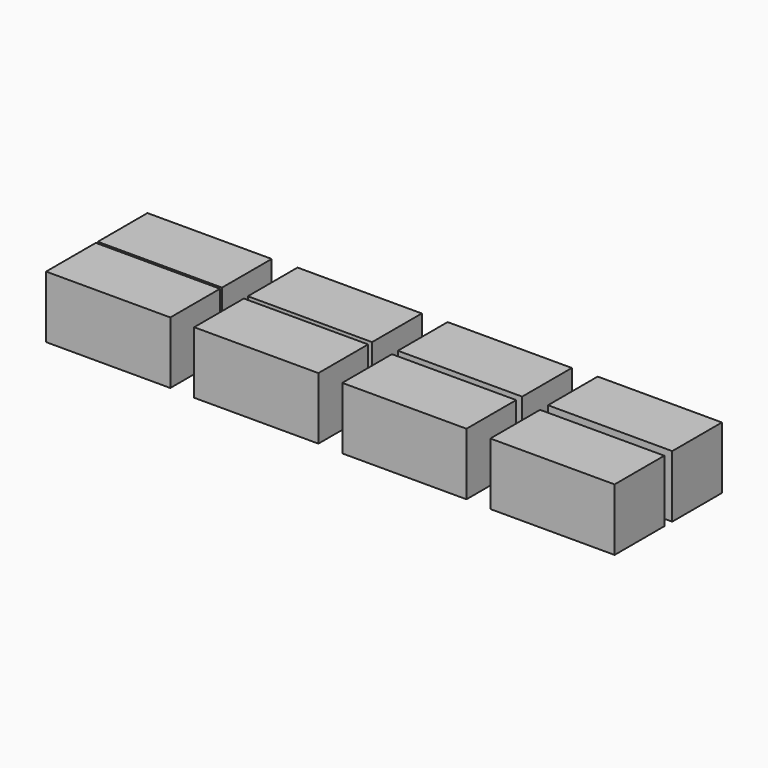
from build123d import *

# Parameters (mm, degrees)
F0_W     = 10
F0_H     = 5
F1_DEPTH = 5


with BuildPart() as f1:
    # F0 (on Top) → F1 (new body)
    with BuildSketch(Plane.XY):
        with Locations((5, -2.6)):
            Rectangle(F0_W, F0_H)
        with Locations((17, -2.7)):
            Rectangle(F0_W, F0_H)
        with Locations((29, -2.8)):
            Rectangle(F0_W, F0_H)
        with Locations((41, -2.9)):
            Rectangle(F0_W, F0_H)
        with Locations((17, 2.7)):
            Rectangle(F0_W, F0_H)
        with Locations((29, 2.8)):
            Rectangle(F0_W, F0_H)
        with Locations((41, 2.9)):
            Rectangle(F0_W, F0_H)
        with Locations((5, 2.6)):
            Rectangle(F0_W, F0_H)
    extrude(amount=F1_DEPTH)


solid = f1.part
